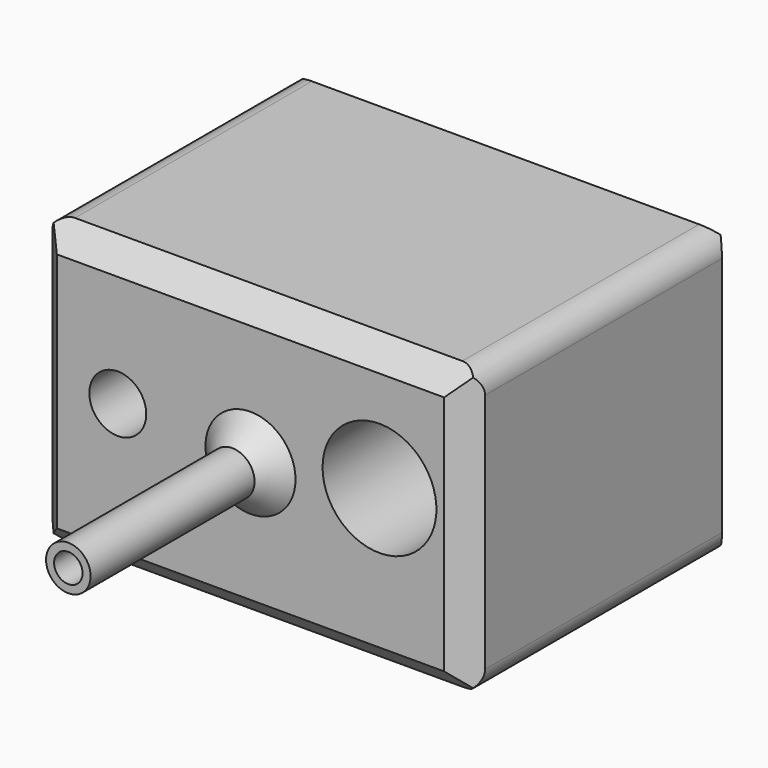
from build123d import *

# Parameters (mm, degrees)
F0_W     = 96.55572474
F0_H     = 63.9681667089
F1_DEPTH = 76.2
F2_R     = 4.9691003704
F3_DEPTH = 50.8
F4_SIZE  = 5.08
F5_SIZE  = 5.08
F6_D     = 12.7
F7_D     = 6.35
F8_R     = 5.08
F9_R     = 5.08
F10_D    = 25.4


with BuildPart() as f1:
    # F0 (on Front) → F1 (new body)
    with BuildSketch(Plane.XZ):
        with Locations((0, 31.6823422909)):
            Rectangle(F0_W, F0_H)
    extrude(amount=F1_DEPTH)

    # F2 (on face) → F3 (join)
    with BuildSketch(Plane.XZ.offset(76.2)):
        with Locations((0, 31.6823422909)):
            Circle(F2_R)
    extrude(amount=F3_DEPTH)

    # F4
    f4_edges = [f1.edges().sort_by_distance(p)[0] for p in [
        (48.277862, -76.2, 31.682342),
        (0, -76.2, -0.301741),
        (0, -76.2, 63.666426),
        (-48.277862, -76.2, 31.682342),
        (-4.9691, -76.2, 31.682342),
    ]]
    chamfer(f4_edges, length=F4_SIZE)

    # F5
    f5_edges = [f1.edges().sort_by_distance(p)[0] for p in [
        (48.277862, 0, 31.682342),
        (0, 0, 63.666426),
        (-48.277862, 0, 31.682342),
        (0, 0, -0.301741),
    ]]
    chamfer(f5_edges, length=F5_SIZE)

    # F6 (through all)
    with Locations(Plane(origin=(0, 0, 0), x_dir=(1, 0, 0), z_dir=(0, 1, 0))):
        with Locations((-29.6028293669, -33.6742401123)):
            Hole(F6_D / 2)

    # F7 (through all)
    with Locations(Plane(origin=(0, 0, 0), x_dir=(1, 0, 0), z_dir=(0, 1, 0))):
        with Locations((0, -31.6823422909)):
            Hole(F7_D / 2)

    # F8
    f8_edges = [f1.edges().sort_by_distance(p)[0] for p in [
        (-48.277862, -38.1, -0.301741),
    ]]
    fillet(f8_edges, radius=F8_R)

    # F9
    f9_edges = [f1.edges().sort_by_distance(p)[0] for p in [
        (48.277862, -38.1, -0.301741),
        (48.277862, -38.1, 63.666426),
        (-48.277862, -38.1, 63.666426),
    ]]
    fillet(f9_edges, radius=F9_R)

    # F10 (through all)
    with Locations(Plane(origin=(0, 0, 0), x_dir=(1, 0, 0), z_dir=(0, 1, 0))):
        with Locations((28.7802238017, -36.0331609845)):
            Hole(F10_D / 2)


solid = f1.part
